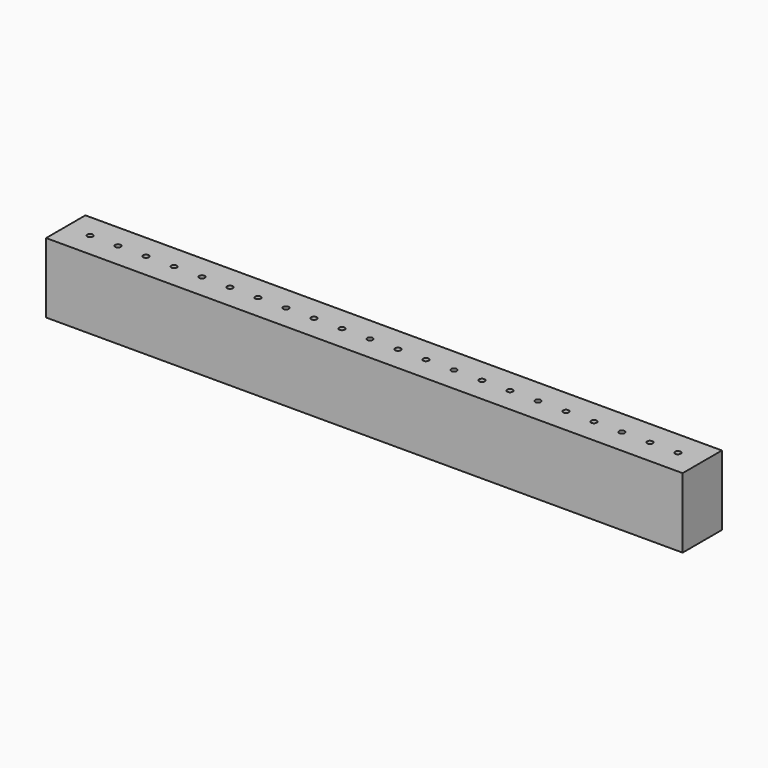
from build123d import *

# Parameters (mm, degrees)
F0_W     = 227.369168
F0_H     = 17.553229
F0_R     = 1
F1_DEPTH = 25


with BuildPart() as f1:
    # F0 (on Top) → F1 (new body)
    with BuildSketch(Plane.XY):
        with Locations((105.051066, -0.059635)):
            Rectangle(F0_W, F0_H)
        Circle(F0_R, mode=Mode.SUBTRACT)
        with Locations((10, 0)):
            Circle(F0_R, mode=Mode.SUBTRACT)
        with Locations((20, 0)):
            Circle(F0_R, mode=Mode.SUBTRACT)
        with Locations((30, 0)):
            Circle(F0_R, mode=Mode.SUBTRACT)
        with Locations((40, 0)):
            Circle(F0_R, mode=Mode.SUBTRACT)
        with Locations((50, 0)):
            Circle(F0_R, mode=Mode.SUBTRACT)
        with Locations((60, 0)):
            Circle(F0_R, mode=Mode.SUBTRACT)
        with Locations((70, 0)):
            Circle(F0_R, mode=Mode.SUBTRACT)
        with Locations((80, 0)):
            Circle(F0_R, mode=Mode.SUBTRACT)
        with Locations((90, 0)):
            Circle(F0_R, mode=Mode.SUBTRACT)
        with Locations((100, 0)):
            Circle(F0_R, mode=Mode.SUBTRACT)
        with Locations((110, 0)):
            Circle(F0_R, mode=Mode.SUBTRACT)
        with Locations((120, 0)):
            Circle(F0_R, mode=Mode.SUBTRACT)
        with Locations((130, 0)):
            Circle(F0_R, mode=Mode.SUBTRACT)
        with Locations((140, 0)):
            Circle(F0_R, mode=Mode.SUBTRACT)
        with Locations((150, 0)):
            Circle(F0_R, mode=Mode.SUBTRACT)
        with Locations((160, 0)):
            Circle(F0_R, mode=Mode.SUBTRACT)
        with Locations((170, 0)):
            Circle(F0_R, mode=Mode.SUBTRACT)
        with Locations((180, 0)):
            Circle(F0_R, mode=Mode.SUBTRACT)
        with Locations((190, 0)):
            Circle(F0_R, mode=Mode.SUBTRACT)
        with Locations((200, 0)):
            Circle(F0_R, mode=Mode.SUBTRACT)
        with Locations((210, 0)):
            Circle(F0_R, mode=Mode.SUBTRACT)
    extrude(amount=F1_DEPTH)


solid = f1.part
